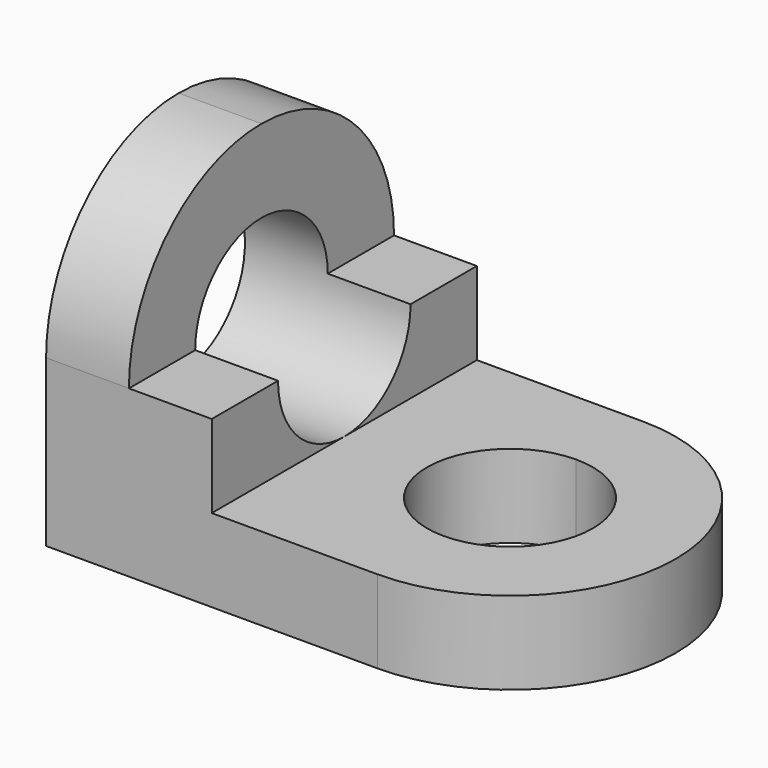
from build123d import *

# Parameters (mm, degrees)
F0_W     = 10
F0_H     = 40
F1_DEPTH = 10
F2_DEPTH = 10
F3_DEPTH = 20
F4_DEPTH = 10
F6_DEPTH = 10
F7_DEPTH = 20


with BuildPart() as f1:
    # F0 (on Top) → F1 (new body)
    with BuildSketch(Plane.XY):
        with Locations((5, 20)):
            Rectangle(F0_W, F0_H)
        with Locations((15, 20)):
            Rectangle(F0_W, F0_H)
        with BuildLine():
            Line((20, 40), (20, 0))
            Line((20, 0), (40, 0))
            Line((40, 0), (40, 10))
            ThreePointArc((40, 10), (30, 20), (40, 30))
            Line((40, 30), (40, 40))
            Line((40, 40), (20, 40))
        make_face()
        with BuildLine():
            Line((40, 10), (40, 0))
            ThreePointArc((40, 0), (60, 20), (40, 40))
            Line((40, 40), (40, 30))
            ThreePointArc((40, 30), (47.0710678119, 27.0710678119), (50, 20))
            ThreePointArc((50, 20), (47.0710678119, 12.9289321881), (40, 10))
        make_face()
    extrude(amount=-F1_DEPTH)

    # F0 (on Top) → F2 (join)
    with BuildSketch(Plane.XY):
        with Locations((15, 20)):
            Rectangle(F0_W, F0_H)
    extrude(amount=F2_DEPTH)

    # F0 (on Top) → F3 (join)
    with BuildSketch(Plane.XY):
        with Locations((5, 20)):
            Rectangle(F0_W, F0_H)
    extrude(amount=F3_DEPTH)

    # F4 (add): a face of the model
    f4_faces = [f1.faces().sort_by_distance(p)[0] for p in [
        (5, 20, 20),
    ]]
    extrude(f4_faces, amount=F4_DEPTH)

    # F5 (on face) → F6 (cut)
    with BuildSketch(Plane(origin=(0, 0, 0), x_dir=(0, -1, 0), z_dir=(-1, 0, 0))):
        with BuildLine():
            Line((-40, 10.3303231299), (-40, 10))
            ThreePointArc((-40, 10), (-34.1421356237, 24.1421356237), (-20, 30))
            Line((-20, 30), (-40, 30))
            Line((-40, 30), (-40, 10.3303231299))
        make_face()
        with BuildLine():
            ThreePointArc((-20, 30), (-5.8578643763, 24.1421356237), (0, 10))
            Line((0, 10), (0, 30))
            Line((0, 30), (-20, 30))
        make_face()
    extrude(amount=-F6_DEPTH, mode=Mode.SUBTRACT)

    # F5 (on face) → F7 (cut)
    with BuildSketch(Plane(origin=(0, 0, 0), x_dir=(0, -1, 0), z_dir=(-1, 0, 0))):
        with BuildLine():
            ThreePointArc((-30, 10), (-20, 0), (-10, 10))
            Line((-10, 10), (-30, 10))
        make_face()
        with BuildLine():
            Line((-30, 10), (-10, 10))
            ThreePointArc((-10, 10), (-20, 20), (-30, 10))
        make_face()
    extrude(amount=-F7_DEPTH, mode=Mode.SUBTRACT)


solid = f1.part
